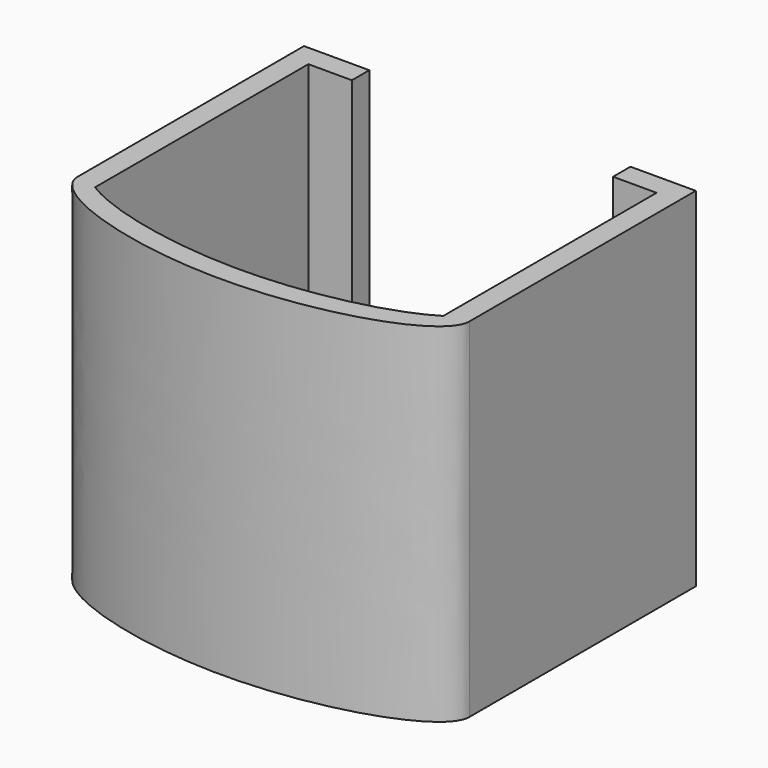
from build123d import *

# Parameters (mm, degrees)
F1_DEPTH = 16
F2_DEPTH = 10


with BuildPart() as f1:
    # F0 (on Top) → F1 (new body)
    with BuildSketch(Plane.XY):
        with BuildLine():
            Line((-9, 9), (-9, 0))
            Line((-9, 0), (-9, -3))
            add(Edge.make_bspline(
                [(-9, -3), (-9, -2.5707676204), (-8.6315191286, -2.1415352408), (-8, -1.7474503993)],
                knots=[0, 0, 0, 0, 0.0715387299, 0.0715387299, 0.0715387299, 0.0715387299], degree=3))
            Line((-8, -1.7474503993), (-8, 0))
            Line((-8, 0), (-8, 1))
            Line((-8, 1), (-8, 8))
            Line((-8, 8), (-6, 8))
            Line((-6, 8), (-6, 9))
            Line((-6, 9), (-9, 9))
        make_face()
        with BuildLine():
            add(Edge.make_bspline(
                [(-9, -3), (-9, -2.5707676204), (-8.6315191286, -2.1415352408), (-8, -1.7474503993)],
                knots=[0, 0, 0, 0, 0.0715387299, 0.0715387299, 0.0715387299, 0.0715387299], degree=3))
            add(Edge.make_bspline(
                [(-8.8381918042, -3.5), (-8.9439804927, -3.3347222947), (-9, -3.1673611473), (-9, -3)],
                knots=[0.9721064754, 0.9721064754, 0.9721064754, 0.9721064754, 1, 1, 1, 1], degree=3))
            add(Edge.make_bspline(
                [(-8, -2.7474503993), (-8.3852847555, -2.9878784004), (-8.6726634562, -3.2413887449), (-8.8381918042, -3.5)],
                knots=[0.9284612701, 0.9284612701, 0.9284612701, 0.9284612701, 0.9721064754, 0.9721064754, 0.9721064754, 0.9721064754], degree=3))
            Line((-8, -2.7474503993), (-8, -1.7474503993))
        make_face()
        with BuildLine():
            add(Edge.make_bspline(
                [(-8.8381918042, -3.5), (-8.9439804927, -3.3347222947), (-9, -3.1673611473), (-9, -3)],
                knots=[0.9721064754, 0.9721064754, 0.9721064754, 0.9721064754, 1, 1, 1, 1], degree=3))
            Line((-9, -3), (-9, -4))
            add(Edge.make_bspline(
                [(-8.8381918042, -3.5), (-8.9439804927, -3.6652777053), (-9, -3.8326388527), (-9, -4)],
                knots=[0.9721064754, 0.9721064754, 0.9721064754, 0.9721064754, 1, 1, 1, 1], degree=3))
        make_face()
        with BuildLine():
            add(Edge.make_bspline(
                [(-8, -2.7474503993), (-8.3852847555, -2.9878784004), (-8.6726634562, -3.2413887449), (-8.8381918042, -3.5)],
                knots=[0.9284612701, 0.9284612701, 0.9284612701, 0.9284612701, 0.9721064754, 0.9721064754, 0.9721064754, 0.9721064754], degree=3))
            add(Edge.make_bspline(
                [(-8, -4.2525496007), (-8.3852847555, -4.0121215996), (-8.6726634562, -3.7586112551), (-8.8381918042, -3.5)],
                knots=[0.9284612701, 0.9284612701, 0.9284612701, 0.9284612701, 0.9721064754, 0.9721064754, 0.9721064754, 0.9721064754], degree=3))
            Line((-8, -4.2525496007), (-8, -2.7474503993))
        make_face()
        with BuildLine():
            add(Edge.make_bspline(
                [(-8.8381918042, -3.5), (-8.9439804927, -3.6652777053), (-9, -3.8326388527), (-9, -4)],
                knots=[0.9721064754, 0.9721064754, 0.9721064754, 0.9721064754, 1, 1, 1, 1], degree=3))
            add(Edge.make_bspline(
                [(-9, -4), (-9, -5.5), (0, -8.5), (9, -5.5), (9, -4)],
                knots=[0, 0, 0, 0, 0.25, 0.5, 0.5, 0.5, 0.5], degree=3))
            add(Edge.make_bspline(
                [(9, -4), (9, -3.8326388527), (8.9439804927, -3.6652777053), (8.8381918042, -3.5)],
                knots=[0.5, 0.5, 0.5, 0.5, 0.5278935246, 0.5278935246, 0.5278935246, 0.5278935246], degree=3))
            add(Edge.make_bspline(
                [(8.8381918042, -3.5), (8.6726634562, -3.7586112551), (8.3852847555, -4.0121215996), (8, -4.2525496007)],
                knots=[0.5278935246, 0.5278935246, 0.5278935246, 0.5278935246, 0.5715387299, 0.5715387299, 0.5715387299, 0.5715387299], degree=3))
            add(Edge.make_bspline(
                [(8, -4.2525496007), (6.4246057224, -5.2356378021), (0, -6.7643621979), (-6.4246057224, -5.2356378021), (-8, -4.2525496007)],
                knots=[0.5715387299, 0.5715387299, 0.5715387299, 0.5715387299, 0.75, 0.9284612701, 0.9284612701, 0.9284612701, 0.9284612701], degree=3))
            add(Edge.make_bspline(
                [(-8, -4.2525496007), (-8.3852847555, -4.0121215996), (-8.6726634562, -3.7586112551), (-8.8381918042, -3.5)],
                knots=[0.9284612701, 0.9284612701, 0.9284612701, 0.9284612701, 0.9721064754, 0.9721064754, 0.9721064754, 0.9721064754], degree=3))
        make_face()
        with BuildLine():
            add(Edge.make_bspline(
                [(8.8381918042, -3.5), (8.6726634562, -3.7586112551), (8.3852847555, -4.0121215996), (8, -4.2525496007)],
                knots=[0.5278935246, 0.5278935246, 0.5278935246, 0.5278935246, 0.5715387299, 0.5715387299, 0.5715387299, 0.5715387299], degree=3))
            add(Edge.make_bspline(
                [(8.8381918042, -3.5), (8.6726634562, -3.2413887449), (8.3852847555, -2.9878784004), (8, -2.7474503993)],
                knots=[0.5278935246, 0.5278935246, 0.5278935246, 0.5278935246, 0.5715387299, 0.5715387299, 0.5715387299, 0.5715387299], degree=3))
            Line((8, -2.7474503993), (8, -4.2525496007))
        make_face()
        with BuildLine():
            add(Edge.make_bspline(
                [(9, -3), (9, -3.1673611473), (8.9439804927, -3.3347222947), (8.8381918042, -3.5)],
                knots=[0.5, 0.5, 0.5, 0.5, 0.5278935246, 0.5278935246, 0.5278935246, 0.5278935246], degree=3))
            add(Edge.make_bspline(
                [(8, -1.7474503993), (8.6315191286, -2.1415352408), (9, -2.5707676204), (9, -3)],
                knots=[0.4284612701, 0.4284612701, 0.4284612701, 0.4284612701, 0.5, 0.5, 0.5, 0.5], degree=3))
            Line((8, -1.7474503993), (8, -2.7474503993))
            add(Edge.make_bspline(
                [(8.8381918042, -3.5), (8.6726634562, -3.2413887449), (8.3852847555, -2.9878784004), (8, -2.7474503993)],
                knots=[0.5278935246, 0.5278935246, 0.5278935246, 0.5278935246, 0.5715387299, 0.5715387299, 0.5715387299, 0.5715387299], degree=3))
        make_face()
        with BuildLine():
            add(Edge.make_bspline(
                [(8, -1.7474503993), (8.6315191286, -2.1415352408), (9, -2.5707676204), (9, -3)],
                knots=[0.4284612701, 0.4284612701, 0.4284612701, 0.4284612701, 0.5, 0.5, 0.5, 0.5], degree=3))
            Line((9, -3), (9, 0))
            Line((9, 0), (9, 9))
            Line((9, 9), (6, 9))
            Line((6, 9), (6, 8))
            Line((6, 8), (8, 8))
            Line((8, 8), (8, 1))
            Line((8, 1), (8, 0))
            Line((8, 0), (8, -1.7474503993))
        make_face()
        with BuildLine():
            add(Edge.make_bspline(
                [(9, -4), (9, -3.8326388527), (8.9439804927, -3.6652777053), (8.8381918042, -3.5)],
                knots=[0.5, 0.5, 0.5, 0.5, 0.5278935246, 0.5278935246, 0.5278935246, 0.5278935246], degree=3))
            Line((9, -4), (9, -3))
            add(Edge.make_bspline(
                [(9, -3), (9, -3.1673611473), (8.9439804927, -3.3347222947), (8.8381918042, -3.5)],
                knots=[0.5, 0.5, 0.5, 0.5, 0.5278935246, 0.5278935246, 0.5278935246, 0.5278935246], degree=3))
        make_face()
    extrude(amount=F1_DEPTH)

    # F0 (on Top) → F2 (join)
    with BuildSketch(Plane.XY):
        Polygon((-8, 0), (0, 0), (8, 0), (8, 1), (-8, 1), align=None)
    extrude(amount=F2_DEPTH)


solid = f1.part
